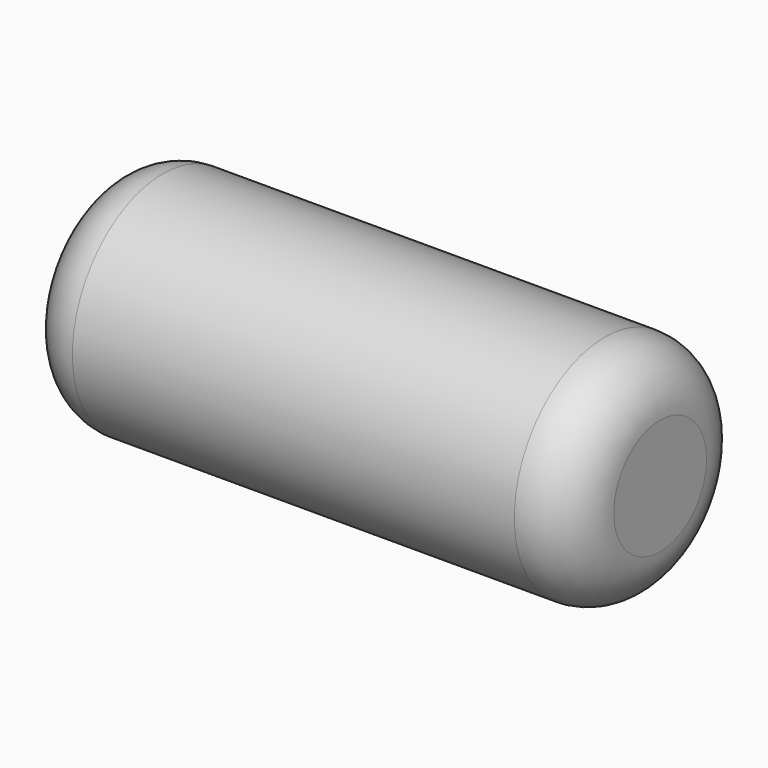
from build123d import *

# Parameters (mm, degrees)
F0_R = 1.0245101739
F3_R = 0.5


with BuildPart() as f2:
    # F2: sweep along a path in F1
    with BuildLine(Plane.XZ) as f2_path:
        Line((0, 0), (-5, 0))
    # F0 (on Right) → F2 (sweep)
    with BuildSketch(Plane.YZ):
        Circle(F0_R)
    sweep(path=f2_path.line)

    # F3
    f3_edges = [f2.edges().sort_by_distance(p)[0] for p in [
        (-5, -1.02451, 0),
        (0, -1.02451, 0),
    ]]
    fillet(f3_edges, radius=F3_R)


solid = f2.part
